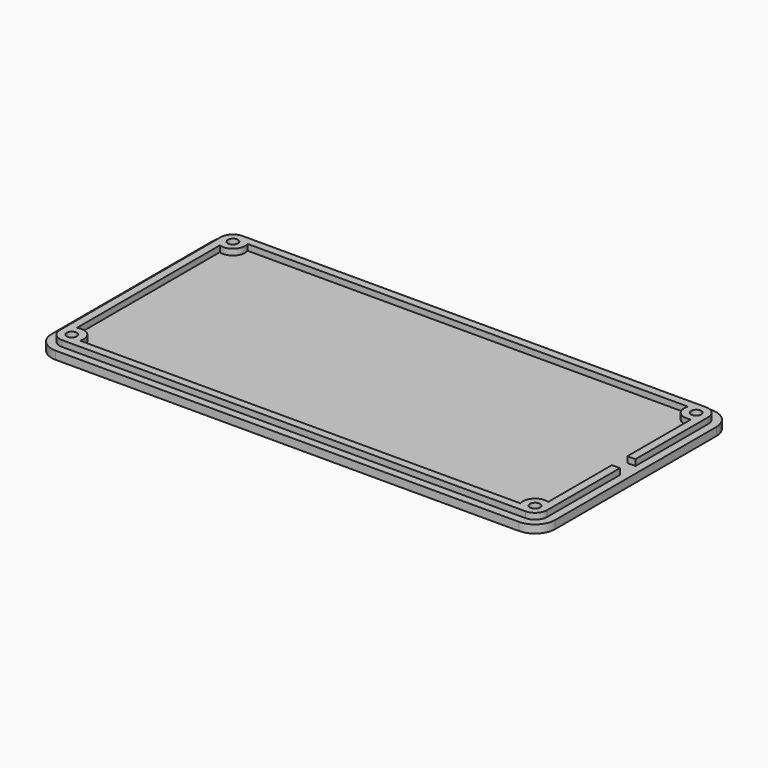
from build123d import *

# Parameters (mm, degrees)
F0_W      = 125
F0_H      = 60
F1_DEPTH  = 2
F2_T      = -2
F3_R      = 5
F4_R      = 1.25
F5_DEPTH  = 10
F6_W      = 117
F6_H      = 52
F7_DEPTH  = 1.5
F8_R      = 3
F9_DEPTH  = 1.5
F10_R     = 1.25
F11_DEPTH = 3.5
F12_R     = 2.8
F13_DEPTH = 1.8
F14_W     = 4.8
F14_H     = 1.5
F15_DEPTH = 2


with BuildPart() as f1:
    # F0 (on Top) → F1 (new body)
    with BuildSketch(Plane.XY):
        Rectangle(F0_W, F0_H)
    extrude(amount=F1_DEPTH)

    # F2
    f2_openings = [f1.faces().sort_by_distance(p)[0] for p in [
        (0, 0, 2),
    ]]
    offset(amount=F2_T, openings=f2_openings)

    # F3
    f3_edges = [f1.edges().sort_by_distance(p)[0] for p in [
        (62.5, -30, 1),
        (62.5, 30, 1),
        (-62.5, 30, 1),
        (-62.5, -30, 1),
    ]]
    fillet(f3_edges, radius=F3_R)

    # F4 (on face) → F5 (cut)
    with BuildSketch(Plane.XY.offset(2)):
        with Locations((-57.5, 25)):
            Circle(F4_R)
        with Locations((-57.5, -25)):
            Circle(F4_R)
        with Locations((57.5, 25)):
            Circle(F4_R)
        with Locations((57.5, -25)):
            Circle(F4_R)
    extrude(amount=F5_DEPTH, mode=Mode.SUBTRACT)

    # F6 (on face) → F7 (join)
    with BuildSketch(Plane.XY.offset(2)):
        with BuildLine():
            ThreePointArc((60.5, 25), (59.62132, 27.12132), (57.5, 28))
            Line((57.5, 28), (-57.5, 28))
            ThreePointArc((-57.5, 28), (-59.62132, 27.12132), (-60.5, 25))
            Line((-60.5, 25), (-60.5, -25))
            ThreePointArc((-60.5, -25), (-59.62132, -27.12132), (-57.5, -28))
            Line((-57.5, -28), (57.5, -28))
            ThreePointArc((57.5, -28), (59.62132, -27.12132), (60.5, -25))
            Line((60.5, -25), (60.5, 25))
        make_face()
        Rectangle(F6_W, F6_H, mode=Mode.SUBTRACT)
    extrude(amount=F7_DEPTH)

    # F8 (on face) → F9 (join)
    with BuildSketch(Plane.XY.offset(2)):
        with Locations((-57.5, 25)):
            Circle(F8_R)
        with Locations((-57.5, -25)):
            Circle(F8_R)
        with Locations((57.5, -25)):
            Circle(F8_R)
        with Locations((57.5, 25)):
            Circle(F8_R)
    extrude(amount=F9_DEPTH)

    # F10 (on face) → F11 (cut, through all)
    with BuildSketch(Plane.XY.offset(3.5)):
        with Locations((57.5, -25)):
            Circle(F10_R)
        with Locations((57.5, 25)):
            Circle(F10_R)
        with Locations((-57.5, 25)):
            Circle(F10_R)
        with Locations((-57.5, -25)):
            Circle(F10_R)
    extrude(amount=-F11_DEPTH, mode=Mode.SUBTRACT)

    # F12 (on face) → F13 (cut)
    with BuildSketch(Plane(origin=(0, 0, 0), x_dir=(1, 0, 0), z_dir=(0, 0, -1))):
        with Locations((-57.5, 25)):
            Circle(F12_R)
        with Locations((57.5, 25)):
            Circle(F12_R)
        with Locations((-57.5, -25)):
            Circle(F12_R)
        with Locations((57.5, -25)):
            Circle(F12_R)
    extrude(amount=-F13_DEPTH, mode=Mode.SUBTRACT)

    # F14 (on face) → F15 (cut, through all)
    with BuildSketch(Plane.YZ.offset(60.5)):
        with Locations((0, 2.75)):
            Rectangle(F14_W, F14_H)
    extrude(amount=-F15_DEPTH, mode=Mode.SUBTRACT)


solid = f1.part
